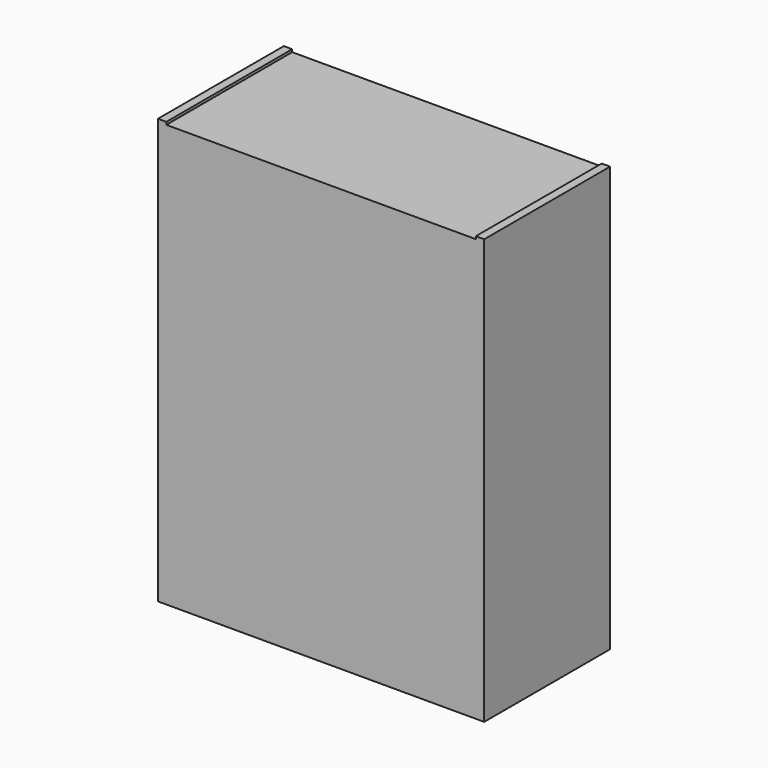
from build123d import *

# Parameters (mm, degrees)
CUBE001_W     = 16
CUBE001_H     = 300
CUBE001_DEPTH = 810
CUBE002_W     = 590
CUBE002_H     = 300
CUBE002_DEPTH = 16
CUBE003_W     = 590
CUBE003_H     = 300
CUBE003_DEPTH = 789
CUBE_W        = 16
CUBE_H        = 300
CUBE_DEPTH    = 810


with BuildPart() as cube001:
    # cube001 → cube001 (new body)
    with BuildSketch(Plane(origin=(606, 0, 0), x_dir=(1, 0, 0), z_dir=(0, 0, 1))):
        with Locations((8, 150)):
            Rectangle(CUBE001_W, CUBE001_H)
    extrude(amount=CUBE001_DEPTH)


with BuildPart() as cube002:
    # cube002 → cube002 (new body)
    with BuildSketch(Plane(origin=(16, 0, 789), x_dir=(1, 0, 0), z_dir=(0, 0, 1))):
        with Locations((295, 150)):
            Rectangle(CUBE002_W, CUBE002_H)
    extrude(amount=CUBE002_DEPTH)


with BuildPart() as cube003:
    # cube003 → cube003 (new body)
    with BuildSketch(Plane(origin=(16, 0, 0), x_dir=(1, 0, 0), z_dir=(0, 0, 1))):
        with Locations((295, 150)):
            Rectangle(CUBE003_W, CUBE003_H)
    extrude(amount=CUBE003_DEPTH)


with BuildPart() as base_drawers:
    # cube → cube (new body)
    with BuildSketch(Plane.XY):
        with Locations((8, 150)):
            Rectangle(CUBE_W, CUBE_H)
    extrude(amount=CUBE_DEPTH)

    # Group: union cube001, cube002, cube003
    add(cube001.part)
    add(cube002.part)
    add(cube003.part)


solid = base_drawers.part
